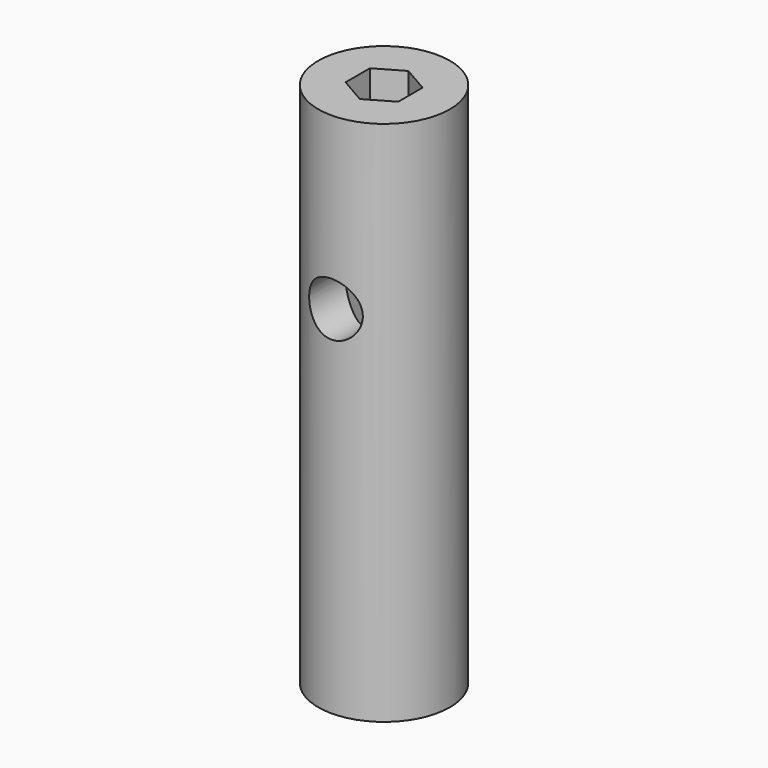
from build123d import *

# Parameters (mm, degrees)
F0_R          = 19.05
F1_DEPTH      = 152.4
F2_R          = 7.7697856706
F3_DEPTH      = 19.051
F3_DEPTH_BACK = 19.051


with BuildPart() as f1:
    # F0 (on Top) → F1 (new body)
    with BuildSketch(Plane.XY):
        Circle(F0_R)
        Polygon((0, 8.7988181024), (7.62, 4.3994090512), (7.62, -4.3994090512), (0, -8.7988181024), (-7.62, -4.3994090512), (-7.62, 4.3994090512), align=None, mode=Mode.SUBTRACT)
    extrude(amount=F1_DEPTH)

    # F2 (on Front) → F3 (cut, two sides)
    with BuildSketch(Plane.XZ) as f3_sk:
        with Locations((0, 103.0308902264)):
            Circle(F2_R)
    extrude(amount=-F3_DEPTH, mode=Mode.SUBTRACT)
    extrude(f3_sk.sketch, amount=F3_DEPTH_BACK, mode=Mode.SUBTRACT)


solid = f1.part
